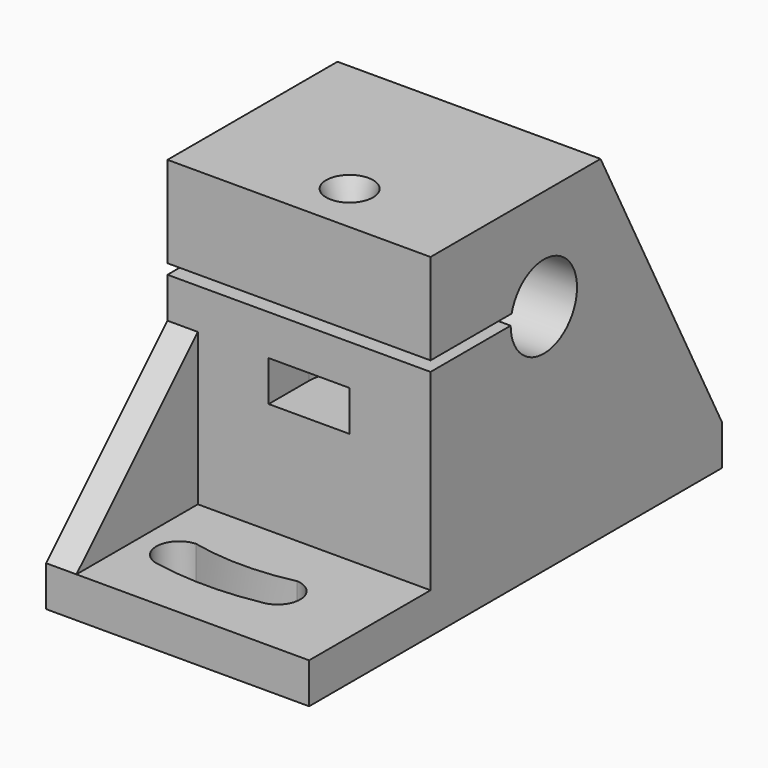
from build123d import *

# Parameters (mm, degrees)
CYLINDER112_R              = 6
CYLINDER112_DEPTH          = 30
CYLINDER114_R              = 2.1
CYLINDER114_DEPTH          = 10
CYLINDER113_R              = 1.6
CYLINDER113_DEPTH          = 15
CYLINDER116_R              = 4
CYLINDER116_DEPTH          = 4
BOX041_W                   = 13
BOX041_H                   = 8
BOX041_DEPTH               = 4
EXTRUDE034_DEPTH           = 3
EXTRUDE034_PLACEMENT_ANGLE = 180
EXTRUDE033_DEPTH           = 10
BOX039_W                   = 51
BOX039_H                   = 26
BOX039_DEPTH               = 4
EXTRUDE032_DEPTH           = 26
CYLINDER115_R              = 4.1
CYLINDER115_DEPTH          = 240
BOX040_W                   = 12
BOX040_H                   = 35
BOX040_DEPTH               = 1
BOX042_W                   = 21
BOX042_H                   = 26
BOX042_DEPTH               = 33
CUT101_PLACEMENT_ANGLE     = 90


with BuildPart() as cylinder112:
    # Cylinder112 → Cylinder112 (new body)
    with BuildSketch(Plane.XY.offset(10)):
        Circle(CYLINDER112_R)
    extrude(amount=CYLINDER112_DEPTH)


with BuildPart() as fusion051:
    # Cylinder114 → Cylinder114 (new body)
    with BuildSketch(Plane.XY):
        Circle(CYLINDER114_R)
    extrude(amount=CYLINDER114_DEPTH)

    # Fusion051: union Cylinder112
    add(cylinder112.part)


with BuildPart() as fusion051_1:
    # Fusion051 placement: moved
    add(fusion051.part.moved(Location((-14, 12, -29))))


with BuildPart() as cylinder113:
    # Cylinder113 → Cylinder113 (new body)
    with BuildSketch(Plane.XY):
        Circle(CYLINDER113_R)
    extrude(amount=CYLINDER113_DEPTH)


with BuildPart() as fusion053:
    # Cone013 → Cone013 (revolve)
    with BuildSketch(Plane(origin=(0, 0, 15), x_dir=(1, 0, 0), z_dir=(0, -1, 0))):
        Polygon((0, 0), (1.6, 0), (2.5, 2.5), (0, 2.5), align=None)
    revolve(axis=Axis((0, 0, 15), (0, 0, 1)))

    # Fusion053: union Cylinder113
    add(cylinder113.part)


with BuildPart() as fusion053_1:
    # Fusion053 placement: moved
    add(fusion053.part.moved(Location((9, 11, -7))))


with BuildPart() as cylinder116:
    # Cylinder116 → Cylinder116 (new body)
    with BuildSketch(Plane(origin=(9, 11, -8), x_dir=(1, 0, 0), z_dir=(0, 0, 1))):
        Circle(CYLINDER116_R)
    extrude(amount=CYLINDER116_DEPTH)


with BuildPart() as fusion055:
    # Box041 → Box041 (new body)
    with BuildSketch(Plane(origin=(9, 7, -8), x_dir=(1, 0, 0), z_dir=(0, 0, 1))):
        with Locations((6.5, 4)):
            Rectangle(BOX041_W, BOX041_H)
    extrude(amount=BOX041_DEPTH)

    # Fusion055: union Cylinder116
    add(cylinder116.part)


with BuildPart() as extrude034:
    # Sketch026 → Extrude034 (new body)
    with BuildSketch(Plane.XZ):
        Polygon((-22, -19), (-7, -19), (-7, -4), align=None)
    extrude(amount=-EXTRUDE034_DEPTH)


with BuildPart() as extrude034_1:
    # Extrude034 placement: moved
    add(extrude034.part.moved(Location((7, 0, 0))).rotate(Axis((7, 0, 0), (0, 0, 1)), EXTRUDE034_PLACEMENT_ANGLE))


with BuildPart() as extrude033:
    # Sketch025 → Extrude033 (new body)
    with BuildSketch(Plane.XY):
        with BuildLine():
            ThreePointArc((35.736492, 10), (36.2, 15), (35.736492, 20))
            ThreePointArc((35.736492, 20), (33.490746, 22.111711), (31.244999, 20))
            ThreePointArc((31.244999, 10), (31.8, 15), (31.244999, 20))
            ThreePointArc((31.244999, 10), (33.490746, 7.888289), (35.736492, 10))
        make_face()
    extrude(amount=-EXTRUDE033_DEPTH)


with BuildPart() as extrude033_1:
    # Extrude033 placement: moved
    add(extrude033.part.moved(Location((-12, -3, -17))))


with BuildPart() as cut099:
    # Box039 → Box039 (new body)
    with BuildSketch(Plane(origin=(-22, 0, -23), x_dir=(1, 0, 0), z_dir=(0, 0, 1))):
        with Locations((25.5, 13)):
            Rectangle(BOX039_W, BOX039_H)
    extrude(amount=BOX039_DEPTH)

    # Cut099: cut Extrude033
    add(extrude033_1.part, mode=Mode.SUBTRACT)


with BuildPart() as cut099_1:
    # Cut099 placement: moved
    add(cut099.part.moved(Location((0, -3, 0))))


with BuildPart() as extrude032:
    # Sketch027 → Extrude032 (new body)
    with BuildSketch(Plane.XZ):
        Polygon((-22, -19), (-7, -19), (-7, 10), align=None)
    extrude(amount=-EXTRUDE032_DEPTH)


with BuildPart() as extrude032_1:
    # Extrude032 placement: moved
    add(extrude032.part.moved(Location((0, -3, 0))))


with BuildPart() as cylinder115:
    # Cylinder115 → Cylinder115 (new body)
    with BuildSketch(Plane(origin=(0, -7, 0), x_dir=(1, 0, 0), z_dir=(0, 1, 0))):
        Circle(CYLINDER115_R)
    extrude(amount=CYLINDER115_DEPTH)


with BuildPart() as box040:
    # Box040 → Box040 (new body)
    with BuildSketch(Plane(origin=(3, -6, 0), x_dir=(1, 0, 0), z_dir=(0, 0, 1))):
        with Locations((6, 17.5)):
            Rectangle(BOX040_W, BOX040_H)
    extrude(amount=BOX040_DEPTH)


with BuildPart() as cut101:
    # Box042 → Box042 (new body)
    with BuildSketch(Plane(origin=(-7, -3, -23), x_dir=(1, 0, 0), z_dir=(0, 0, 1))):
        with Locations((10.5, 13)):
            Rectangle(BOX042_W, BOX042_H)
    extrude(amount=BOX042_DEPTH)

    # Cut100: cut Box040
    add(box040.part, mode=Mode.SUBTRACT)

    # Cut102: cut Cylinder115
    add(cylinder115.part, mode=Mode.SUBTRACT)

    # Fusion052: union Cut099, Extrude032
    add(cut099_1.part)
    add(extrude032_1.part)

    # Fusion054: union Extrude034
    add(extrude034_1.part)

    # Cut098: cut Fusion055
    add(fusion055.part, mode=Mode.SUBTRACT)

    # Cut103: cut Fusion053
    add(fusion053_1.part, mode=Mode.SUBTRACT)

    # Cut101: cut Fusion051
    add(fusion051_1.part, mode=Mode.SUBTRACT)


with BuildPart() as cut101_1:
    # Cut101 placement: moved
    add(cut101.part.moved(Location((55, 7, 23))).rotate(Axis((55, 7, 23), (0, 0, -1)), CUT101_PLACEMENT_ANGLE))


solid = cut101_1.part
